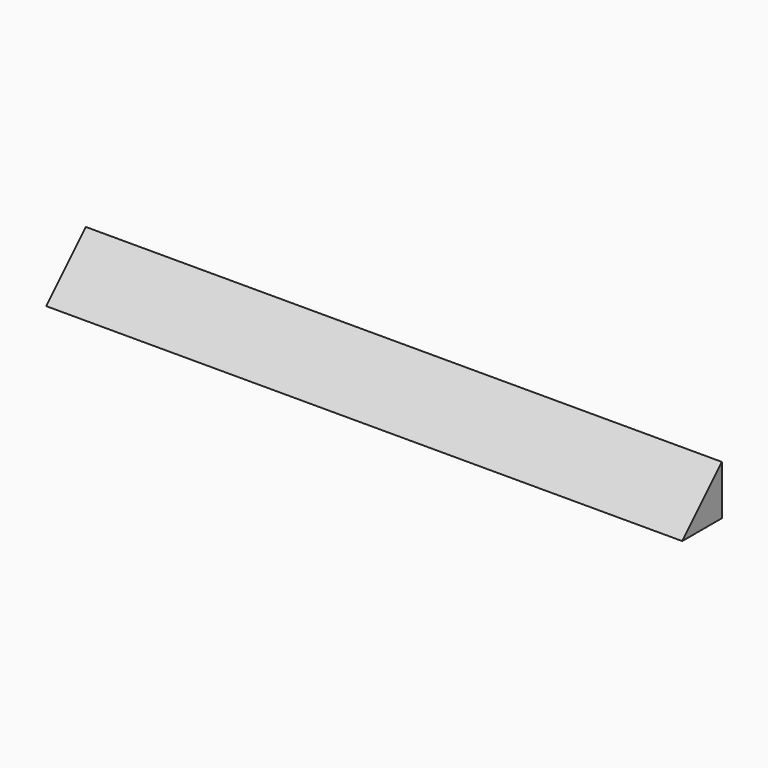
from build123d import *

# Parameters (mm, degrees)
F1_DEPTH = 1955.8
F3_DEPTH = 1.27
F5_DEPTH = 1.27


with BuildPart() as f1:
    # F0 (on Right) → F1 (new body)
    with BuildSketch(Plane.YZ):
        Polygon((-152.4, 0), (0, 0), (0, 152.4), align=None)
        Polygon((-149.333949, 1.27), (-1.27, 149.333949), (-1.27, 1.27), align=None, mode=Mode.SUBTRACT)
    extrude(amount=F1_DEPTH)

    # F2 (on face) → F3 (join)
    with BuildSketch(Plane(origin=(0, 0, 0), x_dir=(0, -1, 0), z_dir=(-1, 0, 0))):
        Polygon((1.27, 149.333949), (1.27, 1.27), (149.333949, 1.27), align=None)
    extrude(amount=-F3_DEPTH)

    # F4 (on face) → F5 (join)
    with BuildSketch(Plane.YZ.offset(1955.8)):
        Polygon((-149.333949, 1.27), (-1.27, 1.27), (-1.27, 149.333949), align=None)
    extrude(amount=-F5_DEPTH)


solid = f1.part
